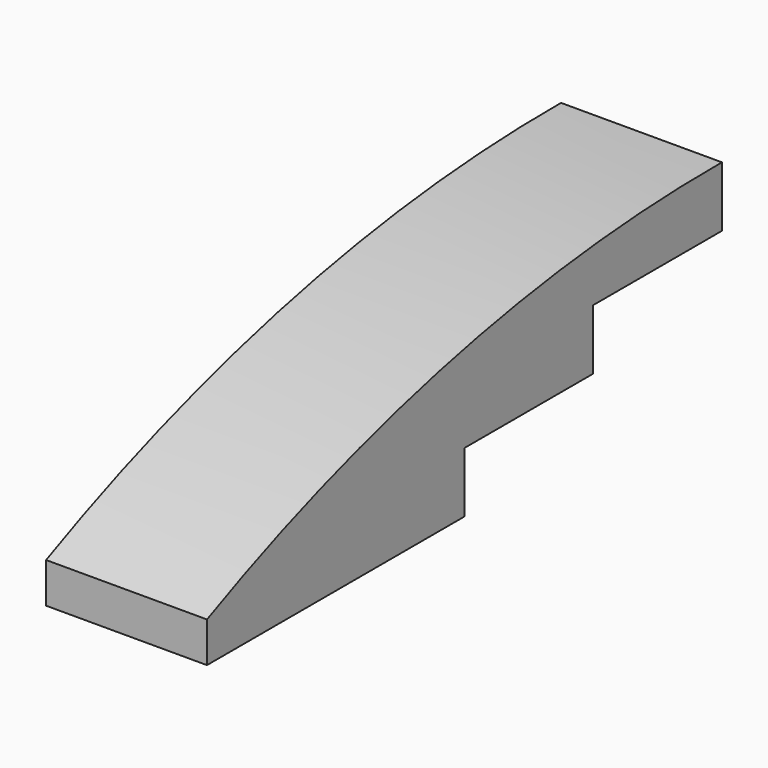
from build123d import *

# Parameters (mm, degrees)
F1_DEPTH = 4
F2_DEPTH = 2.5
F4_W     = 1
F4_H     = 1.5
F6_W     = 1
F6_H     = 1.5
F8_W     = 5
F8_H     = 5
F9_DEPTH = 2


with BuildPart() as f1:
    # F0 (on Right) → F1 (new body)
    with BuildSketch(Plane.YZ):
        with BuildLine():
            Line((0, 2), (0, 0))
            Line((0, 0), (1.5, 0))
            Line((1.5, 0), (1.5, 1.5845440408))
            ThreePointArc((1.5, 1.5845440408), (7.8976750419, 4.0885304442), (14.5, 5.9883985969))
            Line((14.5, 5.9883985969), (14.5, 0))
            Line((14.5, 0), (16, 0))
            Line((16, 0), (16, 3))
            Line((16, 3), (16, 6.3291188198))
            ThreePointArc((16, 6.3291188198), (19.2376865014, 6.9540783828), (22.5, 7.4341814697))
            Line((22.5, 7.4341814697), (22.5, 3))
            Line((22.5, 3), (24, 3))
            Line((24, 3), (24, 6))
            Line((24, 6), (24, 7.6053708135))
            ThreePointArc((24, 7.6053708135), (27.2457445405, 7.8702512613), (30.5, 7.9920735832))
            Line((30.5, 7.9920735832), (30.5, 6))
            Line((30.5, 6), (32, 6))
            Line((32, 6), (32, 9))
            ThreePointArc((32, 9), (15.6131705465, 7.2683632159), (0, 2))
        make_face()
        with BuildLine():
            Line((1.5, 1.5845440408), (1.5, 0))
            Line((1.5, 0), (14.5, 0))
            Line((14.5, 0), (14.5, 5.9883985969))
            ThreePointArc((14.5, 5.9883985969), (7.8976750419, 4.0885304442), (1.5, 1.5845440408))
        make_face()
        with BuildLine():
            Line((16, 6.3291188198), (16, 3))
            Line((16, 3), (22.5, 3))
            Line((22.5, 3), (22.5, 7.4341814697))
            ThreePointArc((22.5, 7.4341814697), (19.2376865014, 6.9540783828), (16, 6.3291188198))
        make_face()
        with BuildLine():
            Line((24, 6), (30.5, 6))
            Line((30.5, 6), (30.5, 7.9920735832))
            ThreePointArc((30.5, 7.9920735832), (27.2457445405, 7.8702512613), (24, 7.6053708135))
            Line((24, 7.6053708135), (24, 6))
        make_face()
    extrude(amount=F1_DEPTH)

    # F0 (on Right) → F2 (cut)
    with BuildSketch(Plane.YZ):
        with BuildLine():
            Line((24, 6), (30.5, 6))
            Line((30.5, 6), (30.5, 7.9920735832))
            ThreePointArc((30.5, 7.9920735832), (27.2457445405, 7.8702512613), (24, 7.6053708135))
            Line((24, 7.6053708135), (24, 6))
        make_face()
        with BuildLine():
            Line((16, 6.3291188198), (16, 3))
            Line((16, 3), (22.5, 3))
            Line((22.5, 3), (22.5, 7.4341814697))
            ThreePointArc((22.5, 7.4341814697), (19.2376865014, 6.9540783828), (16, 6.3291188198))
        make_face()
        with BuildLine():
            Line((1.5, 1.5845440408), (1.5, 0))
            Line((1.5, 0), (14.5, 0))
            Line((14.5, 0), (14.5, 5.9883985969))
            ThreePointArc((14.5, 5.9883985969), (7.8976750419, 4.0885304442), (1.5, 1.5845440408))
        make_face()
    extrude(amount=F2_DEPTH, mode=Mode.SUBTRACT)

    # F3: F1 across face


with BuildPart() as f1_1:
    add(f1.part)
    add(f1.part.mirror(Plane(origin=(0, 16.947812772, 5.3752677136), x_dir=(0, 1, 0), z_dir=(-1, 0, 0))))

    # F4 (on face) → F5 (join, up to the next surface of F1)
    with BuildSketch(Plane(origin=(0, 0, 6), x_dir=(1, 0, 0), z_dir=(0, 0, -1))):
        with Locations((0, -24.75)):
            Rectangle(F4_W, F4_H)
    extrude(until=Until.NEXT, dir=(0, 0, 1))

    # F6 (on face) → F7 (join, up to the next surface of F1)
    with BuildSketch(Plane(origin=(0, 0, 3), x_dir=(1, 0, 0), z_dir=(0, 0, -1))):
        with Locations((0, -16.75)):
            Rectangle(F6_W, F6_H)
    extrude(until=Until.NEXT, dir=(0, 0, 1))

    # F8 (on face) → F9 (cut)
    with BuildSketch(Plane(origin=(0, 0, 0), x_dir=(1, 0, 0), z_dir=(0, 0, -1))):
        with Locations((0, -4)):
            Rectangle(F8_W, F8_H)
    extrude(amount=-F9_DEPTH, mode=Mode.SUBTRACT)


solid = f1_1.part
